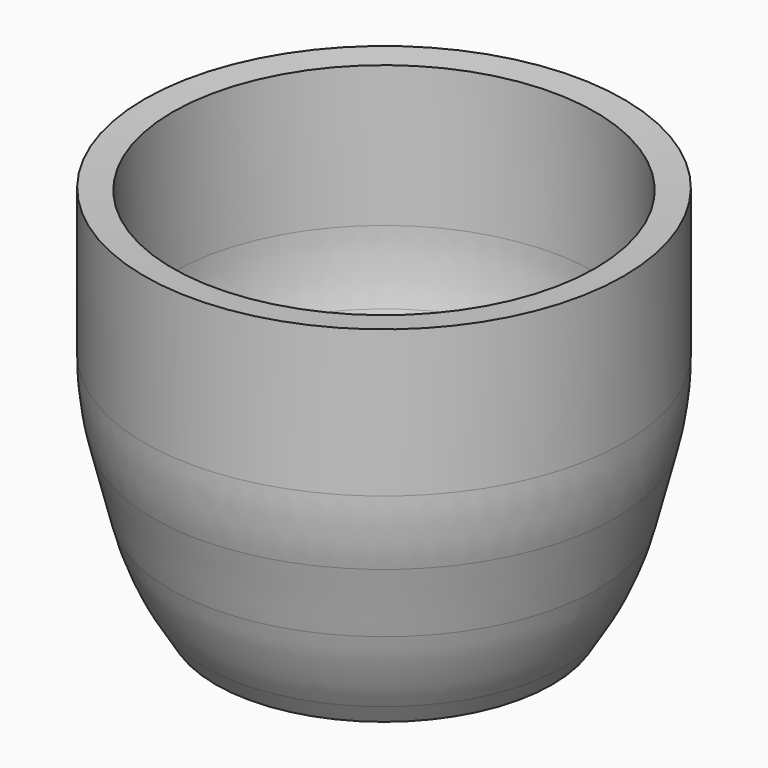
from build123d import *

# Parameters (mm, degrees)
F2_R     = 50.8
F3_R     = 50.8
F4_R     = 2.54
F5_R     = 5.08
F6_DEPTH = 12.7


with BuildPart() as f1:
    # F0 (on Front) → F1 (revolve)
    with BuildSketch(Plane.XZ):
        Polygon((43.18, 63.892171), (38.1, 63.5), (38.1, 31.75), (31.875944, 7.124381), (27.478636, 0), (0, 0), (0, -5.08), (30.312885, -5.08), (36.60948, 5.121546), (43.18, 31.11796), align=None)
    revolve(axis=Axis((0, 0, 31.75), (0, 0, 1)))

    # F2
    f2_edges = [f1.edges().sort_by_distance(p)[0] for p in [
        (-43.18, 0, 31.11796),
        (-36.60948, 0, 5.121546),
    ]]
    fillet(f2_edges, radius=F2_R)

    # F3
    f3_edges = [f1.edges().sort_by_distance(p)[0] for p in [
        (-38.1, 0, 31.75),
        (-31.875944, 0, 7.124381),
    ]]
    fillet(f3_edges, radius=F3_R)

    # F4
    f4_edges = [f1.edges().sort_by_distance(p)[0] for p in [
        (-27.478636, 0, 0),
    ]]
    fillet(f4_edges, radius=F4_R)

    # F5 (on face) → F6 (join)
    with BuildSketch(Plane.XY):
        Circle(F5_R)
    extrude(amount=F6_DEPTH)


solid = f1.part
